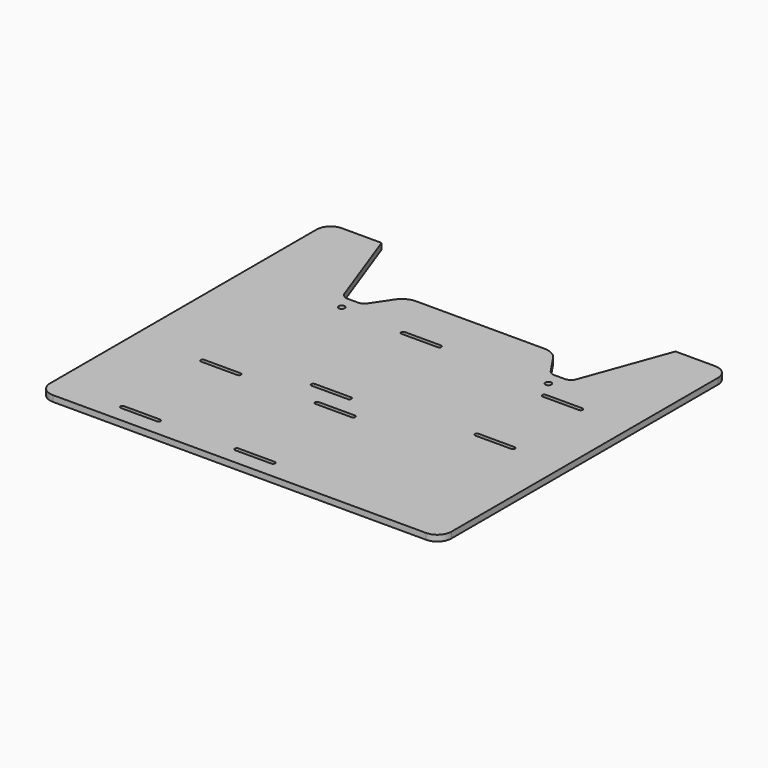
from build123d import *

# Parameters (mm, degrees)
F0_R     = 1.5
F1_DEPTH = 3


with BuildPart() as f1:
    # F0 (on Top) → F1 (new body)
    with BuildSketch(Plane.XY):
        with BuildLine():
            Line((0, 173), (0, 7))
            ThreePointArc((0, 7), (2.050253, 2.050253), (7, 0))
            Line((7, 0), (100, 0))
            Line((100, 0), (193, 0))
            ThreePointArc((193, 0), (197.949747, 2.050253), (200, 7))
            Line((200, 7), (200, 173))
            ThreePointArc((200, 173), (197.949747, 177.949747), (193, 180))
            Line((193, 180), (173.215657, 180))
            Line((173.215657, 180), (157.794937, 137.631919))
            ThreePointArc((157.794937, 137.631919), (156.330472, 135.723392), (154.036166, 135))
            Line((154.036166, 135), (148.963834, 135))
            ThreePointArc((148.963834, 135), (147.085948, 135.46821), (145.647684, 136.763228))
            Line((145.647684, 136.763228), (139.395322, 146.032736))
            ThreePointArc((139.395322, 146.032736), (136.159228, 148.946528), (131.933984, 150))
            Line((131.933984, 150), (100, 150))
            Line((100, 150), (68.066016, 150))
            ThreePointArc((68.066016, 150), (63.840772, 148.946528), (60.604678, 146.032736))
            Line((60.604678, 146.032736), (54.352316, 136.763228))
            ThreePointArc((54.352316, 136.763228), (52.914052, 135.46821), (51.036166, 135))
            Line((51.036166, 135), (45.963834, 135))
            ThreePointArc((45.963834, 135), (43.669528, 135.723392), (42.205063, 137.631919))
            Line((42.205063, 137.631919), (26.784343, 180))
            Line((26.784343, 180), (7, 180))
            ThreePointArc((7, 180), (2.050253, 177.949747), (0, 173))
        make_face()
        with BuildLine():
            Line((52.5, 8), (34.5, 8))
            ThreePointArc((34.5, 8), (33.5, 9), (34.5, 10))
            Line((34.5, 10), (52.5, 10))
            ThreePointArc((52.5, 10), (53.5, 9), (52.5, 8))
        make_face(mode=Mode.SUBTRACT)
        with BuildLine():
            Line((52.5, 58), (34.5, 58))
            ThreePointArc((34.5, 58), (33.5, 59), (34.5, 60))
            Line((34.5, 60), (52.5, 60))
            ThreePointArc((52.5, 60), (53.5, 59), (52.5, 58))
        make_face(mode=Mode.SUBTRACT)
        with BuildLine():
            Line((98.75, 69), (80.75, 69))
            ThreePointArc((80.75, 69), (79.75, 70), (80.75, 71))
            Line((80.75, 71), (98.75, 71))
            ThreePointArc((98.75, 71), (99.75, 70), (98.75, 69))
        make_face(mode=Mode.SUBTRACT)
        with BuildLine():
            Line((109.5, 8), (91.5, 8))
            ThreePointArc((91.5, 8), (90.5, 9), (91.5, 10))
            Line((91.5, 10), (109.5, 10))
            ThreePointArc((109.5, 10), (110.5, 9), (109.5, 8))
        make_face(mode=Mode.SUBTRACT)
        with BuildLine():
            Line((109.5, 58), (91.5, 58))
            ThreePointArc((91.5, 58), (90.5, 59), (91.5, 60))
            Line((91.5, 60), (109.5, 60))
            ThreePointArc((109.5, 60), (110.5, 59), (109.5, 58))
        make_face(mode=Mode.SUBTRACT)
        with BuildLine():
            Line((174.75, 76), (156.75, 76))
            ThreePointArc((156.75, 76), (155.75, 77), (156.75, 78))
            Line((156.75, 78), (174.75, 78))
            ThreePointArc((174.75, 78), (175.75, 77), (174.75, 76))
        make_face(mode=Mode.SUBTRACT)
        with Locations((48.5, 128)):
            Circle(F0_R, mode=Mode.SUBTRACT)
        with BuildLine():
            Line((98.75, 125), (80.75, 125))
            ThreePointArc((80.75, 125), (79.75, 126), (80.75, 127))
            Line((80.75, 127), (98.75, 127))
            ThreePointArc((98.75, 127), (99.75, 126), (98.75, 125))
        make_face(mode=Mode.SUBTRACT)
        with BuildLine():
            Line((174.75, 118), (156.75, 118))
            ThreePointArc((156.75, 118), (155.75, 119), (156.75, 120))
            Line((156.75, 120), (174.75, 120))
            ThreePointArc((174.75, 120), (175.75, 119), (174.75, 118))
        make_face(mode=Mode.SUBTRACT)
        with Locations((151.5, 128)):
            Circle(F0_R, mode=Mode.SUBTRACT)
    extrude(amount=F1_DEPTH)


solid = f1.part
